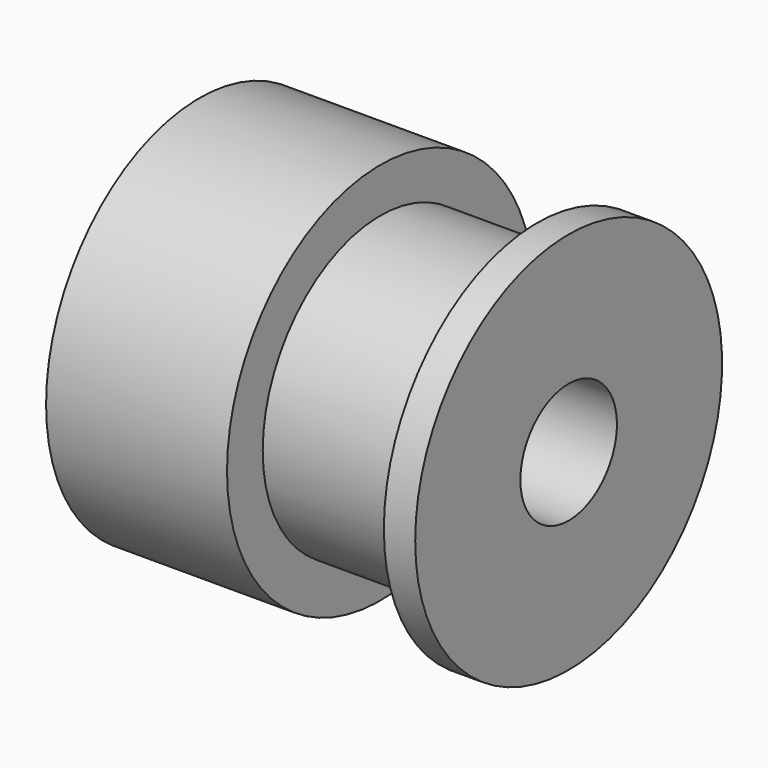
from build123d import *

# Parameters (mm, degrees)
CYLINDER280_R          = 2.5
CYLINDER280_DEPTH      = 19.2
CYLINDER281_R          = 6.1
CYLINDER281_DEPTH      = 7.2
CYLINDER279_R          = 7.95
CYLINDER279_DEPTH      = 1.3
CYLINDER278_R          = 7.95
CYLINDER278_DEPTH      = 7.5
CUT199_ROLL_ANGLE      = -90
CUT199_PLACEMENT_ANGLE = -90


with BuildPart() as cylinder280:
    # Cylinder280 → Cylinder280 (new body)
    with BuildSketch(Plane.XY.offset(-2)):
        Circle(CYLINDER280_R)
    extrude(amount=CYLINDER280_DEPTH)


with BuildPart() as cylinder281:
    # Cylinder281 → Cylinder281 (new body)
    with BuildSketch(Plane.XY.offset(7)):
        Circle(CYLINDER281_R)
    extrude(amount=CYLINDER281_DEPTH)


with BuildPart() as cylinder279:
    # Cylinder279 → Cylinder279 (new body)
    with BuildSketch(Plane.XY.offset(14)):
        Circle(CYLINDER279_R)
    extrude(amount=CYLINDER279_DEPTH)


with BuildPart() as cut199:
    # Cylinder278 → Cylinder278 (new body)
    with BuildSketch(Plane.XY):
        Circle(CYLINDER278_R)
    extrude(amount=CYLINDER278_DEPTH)

    # Fusion107: union Cylinder281, Cylinder279
    add(cylinder281.part)
    add(cylinder279.part)

    # Cut199: cut Cylinder280
    add(cylinder280.part, mode=Mode.SUBTRACT)


with BuildPart() as cut199_1:
    # Cut199 roll: moved
    add(cut199.part.rotate(Axis((0, 0, 0), (1, 0, 0)), CUT199_ROLL_ANGLE))


with BuildPart() as cut199_2:
    # Cut199 placement: moved
    add(cut199_1.part.moved(Location((110.75, -16.26, 70.45))).rotate(Axis((110.75, -16.26, 70.45), (0, 0, 1)), CUT199_PLACEMENT_ANGLE))


solid = cut199_2.part
